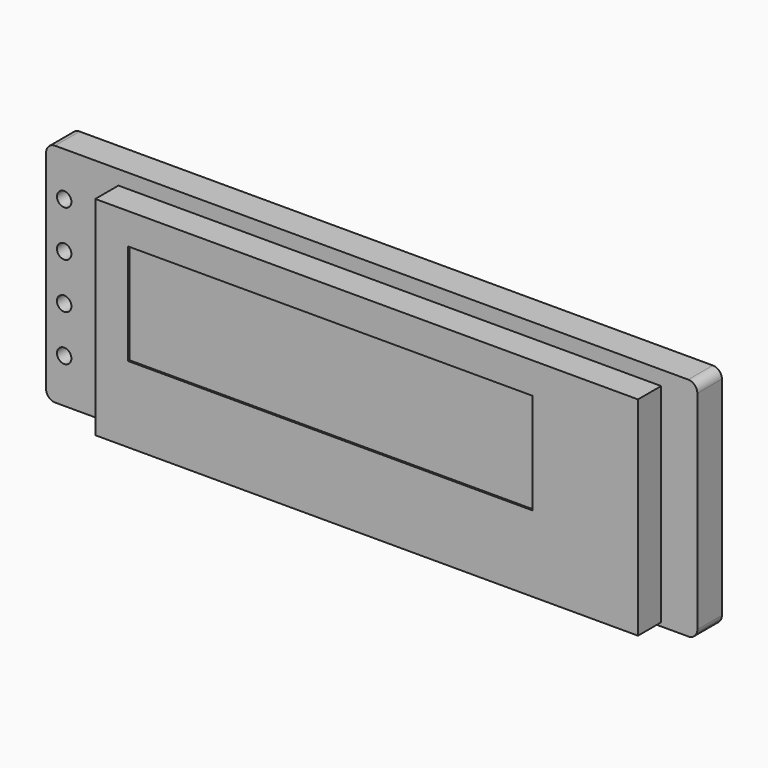
from build123d import *

# Parameters (mm, degrees)
SKETCH_W            = 36
SKETCH_H            = 12.5
PAD_DEPTH           = 1.7
SKETCH001_W         = 30
SKETCH001_H         = 11.5
PAD001_DEPTH        = 3.3
SKETCH002_W         = 22.38
SKETCH002_H         = 5.58
POCKET003_DEPTH     = 0.1
SKETCH003_R         = 0.4
HOLE_DEPTH          = 25
LINEARPATTERN_COUNT = 4
LINEARPATTERN_PITCH = 2.54
FILLET_R            = 0.5


with BuildPart() as part:
    # Sketch → Pad (new body)
    with BuildSketch(Plane.XZ):
        with Locations((18, 6.25)):
            Rectangle(SKETCH_W, SKETCH_H)
    extrude(amount=PAD_DEPTH)

    # Sketch001 → Pad001 (join)
    with BuildSketch(Plane.XZ):
        with Locations((19, 5.95)):
            Rectangle(SKETCH001_W, SKETCH001_H)
    extrude(amount=PAD001_DEPTH)

    # Sketch002 (on Face10 of Pad001) → Pocket003 (cut)
    with BuildSketch(Plane.XZ.offset(3.3)):
        with Locations((16.99, 7.19)):
            Rectangle(SKETCH002_W, SKETCH002_H)
    extrude(amount=-POCKET003_DEPTH, mode=Mode.SUBTRACT)

    # Sketch003 → Hole (cut)
    with BuildSketch(Plane.XZ):
        with Locations((1, 2.44)):
            Circle(SKETCH003_R)
    hole = extrude(amount=HOLE_DEPTH, mode=Mode.SUBTRACT)

    # LinearPattern: Hole ×4
    with Locations(*[(0, 0, i * LINEARPATTERN_PITCH) for i in range(1, LINEARPATTERN_COUNT)]):
        add(hole, mode=Mode.SUBTRACT)

    # Fillet
    fillet_edges = [part.edges().sort_by_distance(p)[0] for p in [
        (36, -0.85, 12.5),
        (36, -0.85, 0),
        (0, -0.85, 12.5),
        (0, -0.85, 0),
    ]]
    fillet(fillet_edges, radius=FILLET_R)


solid = part.part
